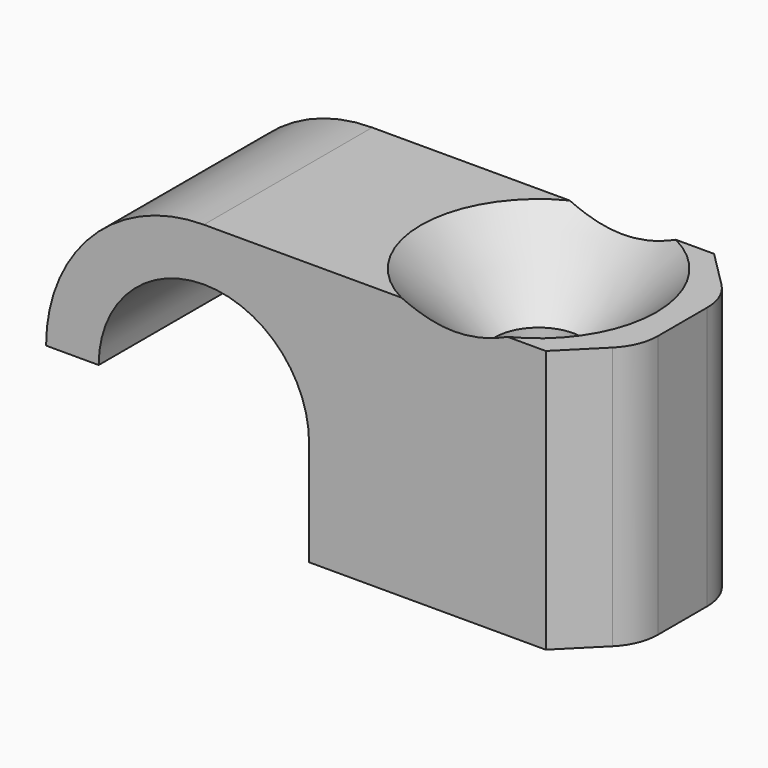
from build123d import *

# Parameters (mm, degrees)
F1_DEPTH       = 4
F3_D           = 3.3
F3_CSINK_D     = 8.96
F3_CSINK_ANGLE = 90
F4_SIZE        = 2
F5_R           = 2


with BuildPart() as f1:
    # F0 (on Front) → F1 (new body, symmetric)
    with BuildSketch(Plane.XZ):
        with BuildLine():
            ThreePointArc((-4, 0), (0, 4), (4, 0))
            Line((4, 0), (4, -4))
            Line((4, -4), (15, -4))
            Line((15, -4), (15, 6))
            Line((15, 6), (0, 6))
            ThreePointArc((0, 6), (-4.2426406871, 4.2426406871), (-6, 0))
            Line((-6, 0), (-4, 0))
        make_face()
    extrude(amount=F1_DEPTH, both=True)

    # F3 (through all)
    with Locations(Plane.XY.offset(6)):
        with Locations((9.5278198645, 0)):
            CounterSinkHole(F3_D / 2, F3_CSINK_D / 2, counter_sink_angle=F3_CSINK_ANGLE)

    # F4
    f4_edges = [f1.edges().sort_by_distance(p)[0] for p in [
        (15, 4, 1),
        (15, -4, 1),
    ]]
    chamfer(f4_edges, length=F4_SIZE)

    # F5
    f5_edges = [f1.edges().sort_by_distance(p)[0] for p in [
        (15, -2, 1),
        (15, 2, 1),
    ]]
    fillet(f5_edges, radius=F5_R)


solid = f1.part
